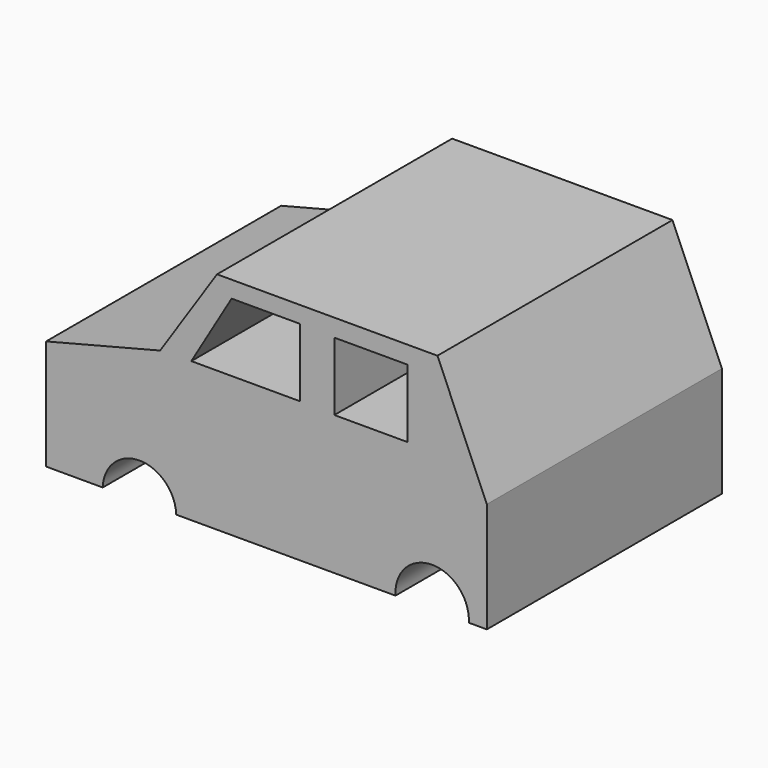
from build123d import *

# Parameters (mm, degrees)
F1_DEPTH = 101.6
F3_DEPTH = 115.062
F4_W     = 25.222163
F4_H     = 23.562811
F5_DEPTH = 157.988
F6_R     = 12.7
F7_DEPTH = 195.834
F8_R     = 12.7
F9_DEPTH = 145.542


with BuildPart() as f1:
    # F0 (on Front) → F1 (new body)
    with BuildSketch(Plane.XZ):
        Polygon((-105.85011, 56.459235), (-145.276219, 46.419184), (-145.276219, 8.319184), (7.123781, 8.319184), (7.123781, 46.419184), (-9.965162, 86.073698), (-86.165162, 86.073698), align=None)
    extrude(amount=F1_DEPTH)

    # F2 (on Front) → F3 (cut)
    with BuildSketch(Plane.XZ):
        Polygon((-81.123598, 80.316171), (-95.062166, 56.75336), (-57.560787, 56.75336), (-57.560787, 80.316171), align=None)
    extrude(amount=F3_DEPTH, mode=Mode.SUBTRACT)

    # F4 (on Front) → F5 (cut)
    with BuildSketch(Plane.XZ):
        with Locations((-33.002364, 68.202894)):
            Rectangle(F4_W, F4_H)
    extrude(amount=F5_DEPTH, mode=Mode.SUBTRACT)

    # F6 (on Front) → F7 (cut)
    with BuildSketch(Plane.XZ):
        with Locations((-112.983182, 7.968382)):
            Circle(F6_R)
    extrude(amount=F7_DEPTH, mode=Mode.SUBTRACT)

    # F8 (on Front) → F9 (cut)
    with BuildSketch(Plane.XZ):
        with Locations((-11.795502, 9.144407)):
            Circle(F8_R)
    extrude(amount=F9_DEPTH, mode=Mode.SUBTRACT)


solid = f1.part
